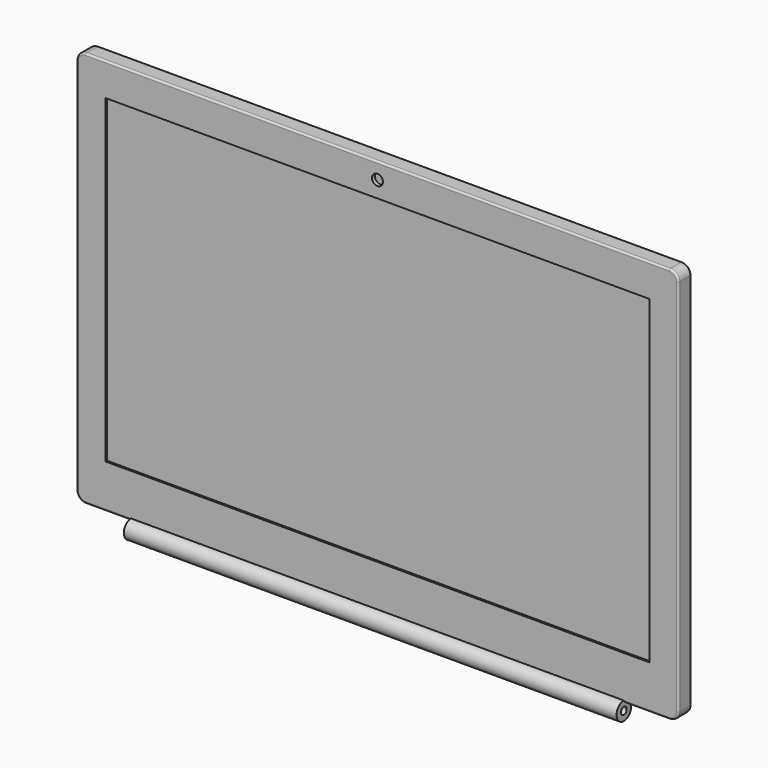
from build123d import *

# Parameters (mm, degrees)
F0_W     = 331
F0_H     = 218
F1_DEPTH = 9
F2_W     = 299
F2_H     = 176
F3_DEPTH = 1
F4_R     = 3
F5_DEPTH = 2
F6_R     = 5
F6_R_2   = 2
F7_DEPTH = 135.5
F8_R     = 5
F9_R     = 1


with BuildPart() as f1:
    # F0 (on Front) → F1 (new body)
    with BuildSketch(Plane.XZ):
        with Locations((0, 109)):
            Rectangle(F0_W, F0_H)
    extrude(amount=F1_DEPTH)

    # F2 (on face) → F3 (cut)
    with BuildSketch(Plane.XZ.offset(9)):
        with Locations((0, 112)):
            Rectangle(F2_W, F2_H)
    extrude(amount=-F3_DEPTH, mode=Mode.SUBTRACT)

    # F4 (on face) → F5 (cut)
    with BuildSketch(Plane.XZ.offset(9)):
        with Locations((0, 209)):
            Circle(F4_R)
    extrude(amount=-F5_DEPTH, mode=Mode.SUBTRACT)

    # F6 (on Right) → F7 (join, symmetric)
    with BuildSketch(Plane.YZ):
        with Locations((-9, -4)):
            Circle(F6_R)
        with Locations((-9, -4)):
            Circle(F6_R_2, mode=Mode.SUBTRACT)
    extrude(amount=F7_DEPTH, both=True)

    # F8
    f8_edges = [f1.edges().sort_by_distance(p)[0] for p in [
        (165.5, -4.5, 0),
        (165.5, -4.5, 218),
        (-165.5, -4.5, 218),
        (-165.5, -4.5, 0),
    ]]
    fillet(f8_edges, radius=F8_R)

    # F9
    f9_edges = [f1.edges().sort_by_distance(p)[0] for p in [
        (-165.5, -9, 109),
        (-165.5, 0, 109),
    ]]
    fillet(f9_edges, radius=F9_R)


solid = f1.part
